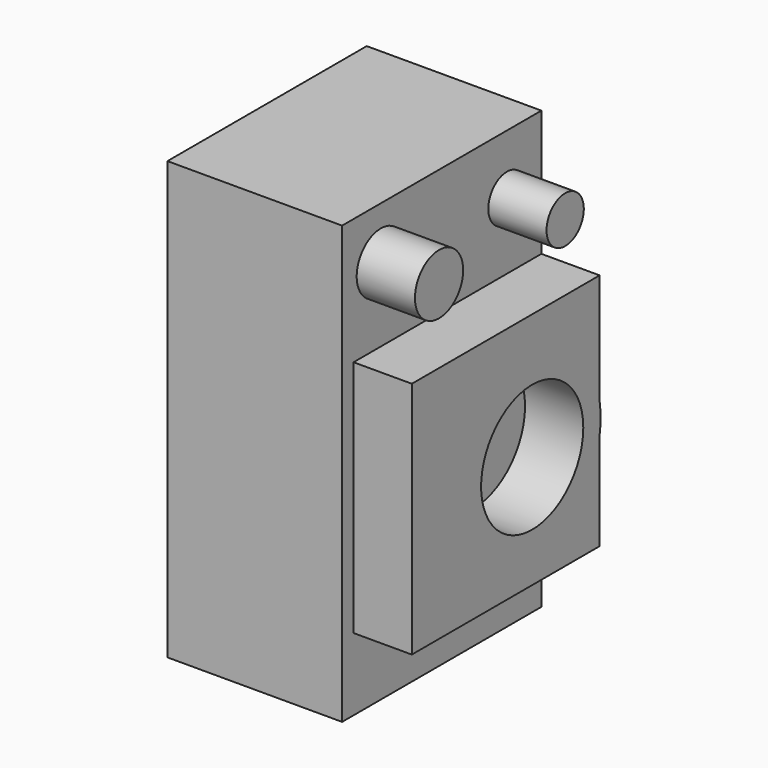
from build123d import *

# Parameters (mm, degrees)
F0_W     = 137.0803564787
F0_H     = 37.9607230425
F0_H_2   = 157.5296968222
F1_DEPTH = 342.9
F2_R     = 50.113864144
F2_R_2   = 23.6378262426
F2_R_3   = 18.2863843725
F3_DEPTH = 45.72


with BuildPart() as f1:
    # F0 (on Top) → F1 (new body)
    with BuildSketch(Plane.XY):
        with Locations((-148.4078988433, -176.5100583434)):
            Rectangle(F0_W, F0_H)
        with Locations((-148.4078988433, -78.7648484111)):
            Rectangle(F0_W, F0_H_2)
    extrude(amount=F1_DEPTH)

    # F2 (on face) → F3 (join)
    with BuildSketch(Plane.YZ.offset(-79.8677206039)):
        with BuildLine():
            Line((0, 243.9405173063), (-184.242784977, 243.9405173063))
            Line((-184.242784977, 243.9405173063), (-184.242784977, 56.8237863481))
            Line((-184.242784977, 56.8237863481), (0, 56.8237863481))
            Line((0, 56.8237863481), (0, 133.513664758))
            ThreePointArc((0, 133.513664758), (-133.3128857735, 145.2163606882), (0, 156.9190566184))
            Line((0, 156.9190566184), (0, 243.9405173063))
        make_face()
        with BuildLine():
            ThreePointArc((1.0273057345, 145.2163606882), (0.7699864236, 151.0902105566), (0, 156.9190566184))
            Line((0, 156.9190566184), (0, 133.513664758))
            ThreePointArc((0, 133.513664758), (0.7699864236, 139.3425108198), (1.0273057345, 145.2163606882))
        make_face()
        with BuildLine():
            Line((0, 133.513664758), (0, 156.9190566184))
            ThreePointArc((0, 156.9190566184), (-133.3128857735, 145.2163606882), (0, 133.513664758))
        make_face()
        with Locations((-66.1427900195, 145.2163606882)):
            Circle(F2_R, mode=Mode.SUBTRACT)
        with Locations((-157.529681921, 301.9122481346)):
            Circle(F2_R_2)
        with Locations((-33.8058769703, 296.1724698544)):
            Circle(F2_R_3)
    extrude(amount=F3_DEPTH)


solid = f1.part
